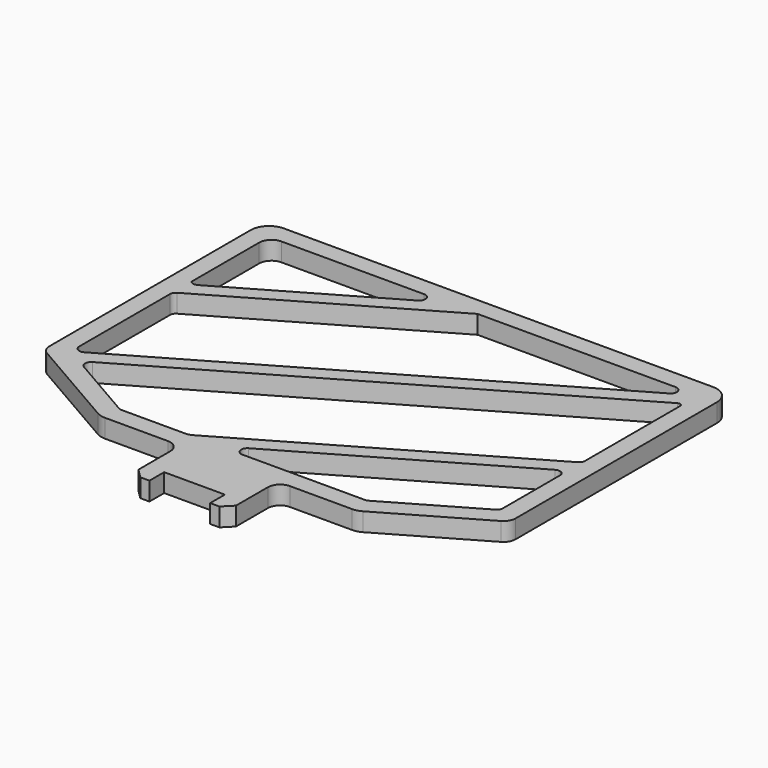
from build123d import *

# Parameters (mm, degrees)
F1_DEPTH = 3


with BuildPart() as f1:
    # F0 (on Top) → F1 (new body)
    with BuildSketch(Plane.XY):
        with BuildLine():
            ThreePointArc((38, 24.5), (37.12132, 26.62132), (35, 27.5))
            Line((35, 27.5), (-35, 27.5))
            ThreePointArc((-35, 27.5), (-37.12132, 26.62132), (-38, 24.5))
            Line((-38, 24.5), (-38, -16.491869))
            ThreePointArc((-38, -16.491869), (-37.732051, -17.491869), (-37, -18.22392))
            Line((-37, -18.22392), (-21.62951, -27.098076))
            ThreePointArc((-21.62951, -27.098076), (-20.905968, -27.397777), (-20.12951, -27.5))
            Line((-20.12951, -27.5), (-18.13, -27.5))
            Line((-18.13, -27.5), (-9.9, -27.5))
            ThreePointArc((-9.9, -27.5), (-8.485786, -28.085786), (-7.9, -29.5))
            Line((-7.9, -29.5), (-7.9, -36))
            Line((-7.9, -36), (-6.4, -37.5))
            Line((-6.4, -37.5), (-4.9, -37.5))
            Line((-4.9, -37.5), (-4.9, -34.5))
            Line((-4.9, -34.5), (0, -34.5))
            Line((0, -34.5), (5, -34.5))
            Line((5, -34.5), (5, -36.699129))
            Line((5, -36.699129), (5, -37.5))
            Line((5, -37.5), (6.5, -37.5))
            Line((6.5, -37.5), (8, -36))
            Line((8, -36), (8, -29.5))
            ThreePointArc((8, -29.5), (8.585786, -28.085786), (10, -27.5))
            Line((10, -27.5), (20.12951, -27.5))
            ThreePointArc((20.12951, -27.5), (20.905968, -27.397777), (21.62951, -27.098076))
            Line((21.62951, -27.098076), (37, -18.22392))
            ThreePointArc((37, -18.22392), (37.732051, -17.491869), (38, -16.491869))
            Line((38, -16.491869), (38, 24.5))
        make_face()
        with BuildLine():
            Line((34.5, -16.203194), (20.12951, -24.5))
            Line((20.12951, -24.5), (-0.138439, -24.5))
            ThreePointArc((-0.138439, -24.5), (-1.104365, -23.758819), (-0.638439, -22.633975))
            Line((-0.638439, -22.633975), (33.537604, -2.902427))
            ThreePointArc((33.537604, -2.902427), (34.414132, -2.842047), (35, -3.496803))
            Line((35, -3.496803), (35, -15.337169))
            ThreePointArc((35, -15.337169), (34.866025, -15.837169), (34.5, -16.203194))
        make_face(mode=Mode.SUBTRACT)
        with BuildLine():
            Line((-35, -7.5), (-35, 4.292741))
            ThreePointArc((-35, 4.292741), (-34.866025, 4.792741), (-34.5, 5.158766))
            Line((-34.5, 5.158766), (-1, 24.5))
            Line((-1, 24.5), (31.267949, 24.5))
            ThreePointArc((31.267949, 24.5), (32.233875, 23.758819), (31.767949, 22.633975))
            Line((31.767949, 22.633975), (-33.5, -15.048493))
            ThreePointArc((-33.5, -15.048493), (-34.5, -15.048493), (-35, -14.182468))
            Line((-35, -14.182468), (-35, -7.5))
        make_face(mode=Mode.SUBTRACT)
        with BuildLine():
            ThreePointArc((-33.75, 8.47853), (-34.411521, 8.357686), (-35, 8.683118))
            Line((-35, 8.683118), (-35, 22.5))
            ThreePointArc((-35, 22.5), (-34.414214, 23.914214), (-33, 24.5))
            Line((-33, 24.5), (-9.732051, 24.5))
            ThreePointArc((-9.732051, 24.5), (-8.766125, 23.758819), (-9.232051, 22.633975))
            Line((-9.232051, 22.633975), (-33.75, 8.47853))
        make_face(mode=Mode.SUBTRACT)
        with BuildLine():
            ThreePointArc((34.25, 21.180236), (34.75, 21.180236), (35, 20.747223))
            Line((35, 20.747223), (35, 1.405989))
            ThreePointArc((35, 1.405989), (34.866025, 0.905989), (34.5, 0.539964))
            Line((34.5, 0.539964), (-8.406388, -24.232051))
            ThreePointArc((-8.406388, -24.232051), (-8.88875, -24.431852), (-9.406388, -24.5))
            Line((-9.406388, -24.5), (-20.12951, -24.5))
            Line((-20.12951, -24.5), (-31, -18.22392))
            ThreePointArc((-31, -18.22392), (-31.5, -17.357895), (-31, -16.491869))
            Line((-31, -16.491869), (34.25, 21.180236))
        make_face(mode=Mode.SUBTRACT)
    extrude(amount=F1_DEPTH)


solid = f1.part
